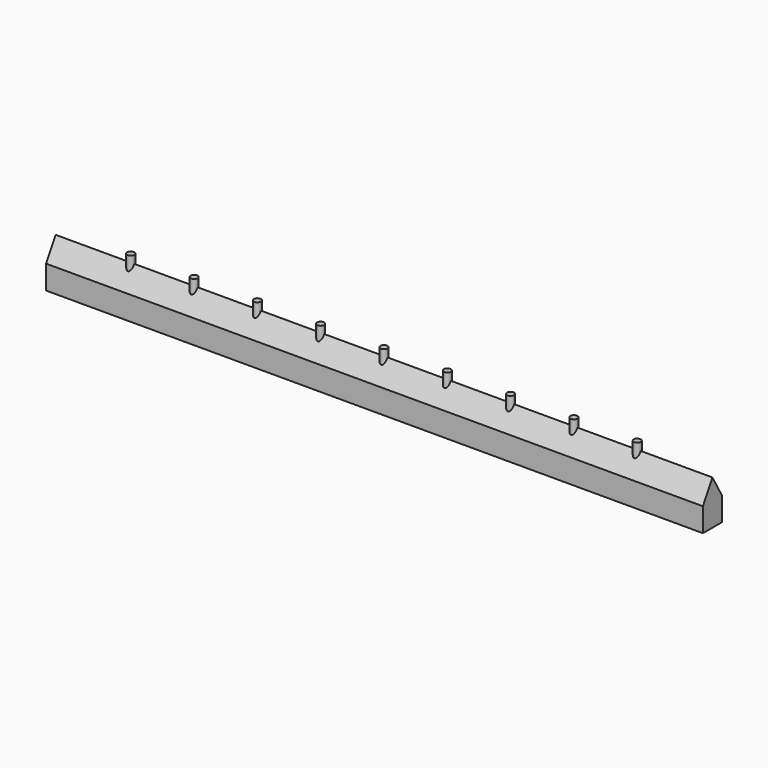
from build123d import *

# Parameters (mm, degrees)
F1_DEPTH  = 41.5
F2_R      = 0.45
F3_DEPTH  = 3.6
F1_FACE_W = 83
F1_FACE_H = 3
F4_DEPTH  = 3


with BuildPart() as f1:
    # F0 (on Right) → F1 (new body, symmetric)
    with BuildSketch(Plane.YZ):
        Polygon((0, 2.598076), (-1.5, 0), (1.5, 0), align=None)
    extrude(amount=F1_DEPTH, both=True)

    # F2 (on Top) → F3 (join)
    with BuildSketch(Plane.XY):
        with Locations((-32, 0)):
            Circle(F2_R)
        with Locations((-24, 0)):
            Circle(F2_R)
        with Locations((-16, 0)):
            Circle(F2_R)
        with Locations((-8, 0)):
            Circle(F2_R)
        Circle(F2_R)
        with Locations((8, 0)):
            Circle(F2_R)
        with Locations((16, 0)):
            Circle(F2_R)
        with Locations((24, 0)):
            Circle(F2_R)
        with Locations((32, 0)):
            Circle(F2_R)
    extrude(amount=F3_DEPTH)

    # F1_face (on face) → F4 (join)
    with BuildSketch(Plane(origin=(0, 0, 0), x_dir=(1, 0, 0), z_dir=(0, 0, -1))):
        Rectangle(F1_FACE_W, F1_FACE_H)
    extrude(amount=F4_DEPTH)


solid = f1.part
